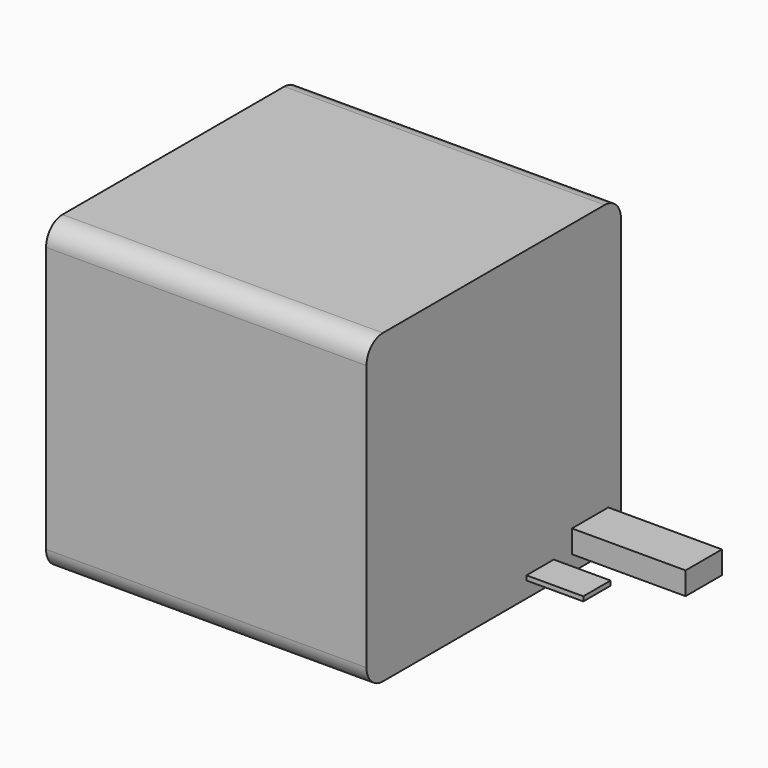
from build123d import *

# Parameters (mm, degrees)
F0_W     = 141
F0_H     = 140
F1_DEPTH = 135
F3_R     = 9
F2_W     = 20
F2_H     = 10
F4_DEPTH = 50
F2_W_2   = 15
F2_H_2   = 2
F5_DEPTH = 25


with BuildPart() as f1:
    # F0 (on Top) → F1 (new body)
    with BuildSketch(Plane.XY):
        with Locations((70.5, 70)):
            Rectangle(F0_W, F0_H)
    extrude(amount=F1_DEPTH)

    # F3
    f3_edges = [f1.edges().sort_by_distance(p)[0] for p in [
        (70.5, 140, 0),
        (70.5, 140, 135),
        (70.5, 0, 0),
        (70.5, 0, 135),
    ]]
    fillet(f3_edges, radius=F3_R)

    # F2 (on face) → F4 (join)
    with BuildSketch(Plane.YZ.offset(141)):
        with Locations((123, 12)):
            Rectangle(F2_W, F2_H)
    extrude(amount=F4_DEPTH)

    # F2 (on face) → F5 (join)
    with BuildSketch(Plane.YZ.offset(141)):
        with Locations((95.5, 8)):
            Rectangle(F2_W_2, F2_H_2)
    extrude(amount=F5_DEPTH)


solid = f1.part
